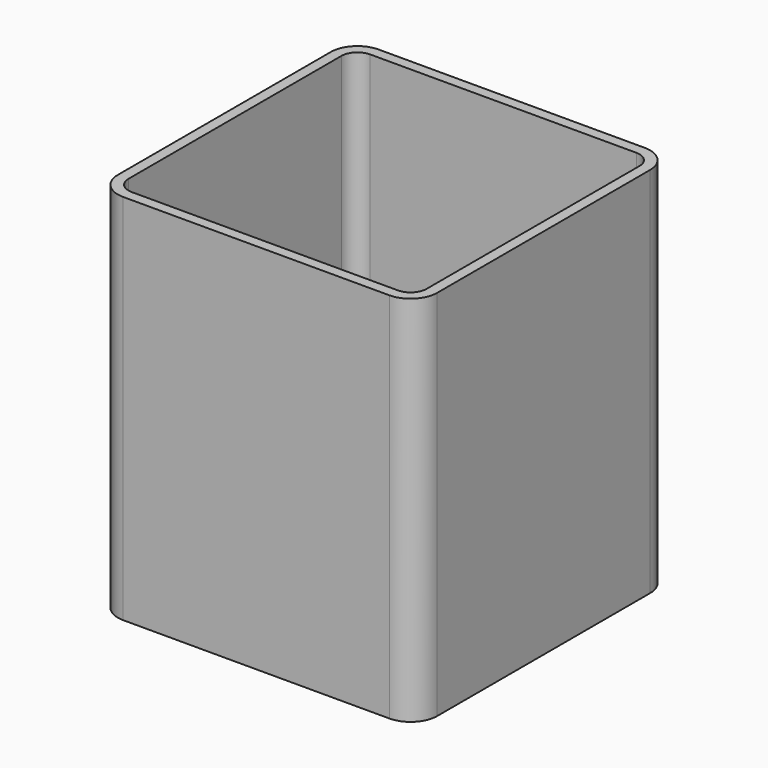
from build123d import *

# Parameters (mm, degrees)
F2_W     = 56
F2_H     = 56
F3_DEPTH = 2
F2_W_2   = 60
F2_H_2   = 60
F4_DEPTH = 70
F5_R     = 5
F6_R     = 3


with BuildPart() as f3:
    # F2 (on Top) → F3 (new body)
    with BuildSketch(Plane.XY):
        Rectangle(F2_W, F2_H)
    extrude(amount=F3_DEPTH)

    # F2 (on Top) → F4 (join)
    with BuildSketch(Plane.XY):
        Rectangle(F2_W_2, F2_H_2)
        Rectangle(F2_W, F2_H, mode=Mode.SUBTRACT)
    extrude(amount=F4_DEPTH)

    # F5
    f5_edges = [f3.edges().sort_by_distance(p)[0] for p in [
        (30, -30, 35),
        (-30, -30, 35),
        (30, 30, 35),
        (-30, 30, 35),
    ]]
    fillet(f5_edges, radius=F5_R)

    # F6
    f6_edges = [f3.edges().sort_by_distance(p)[0] for p in [
        (-28, 28, 36),
        (28, 28, 36),
        (28, -28, 36),
        (-28, -28, 36),
    ]]
    fillet(f6_edges, radius=F6_R)


solid = f3.part
